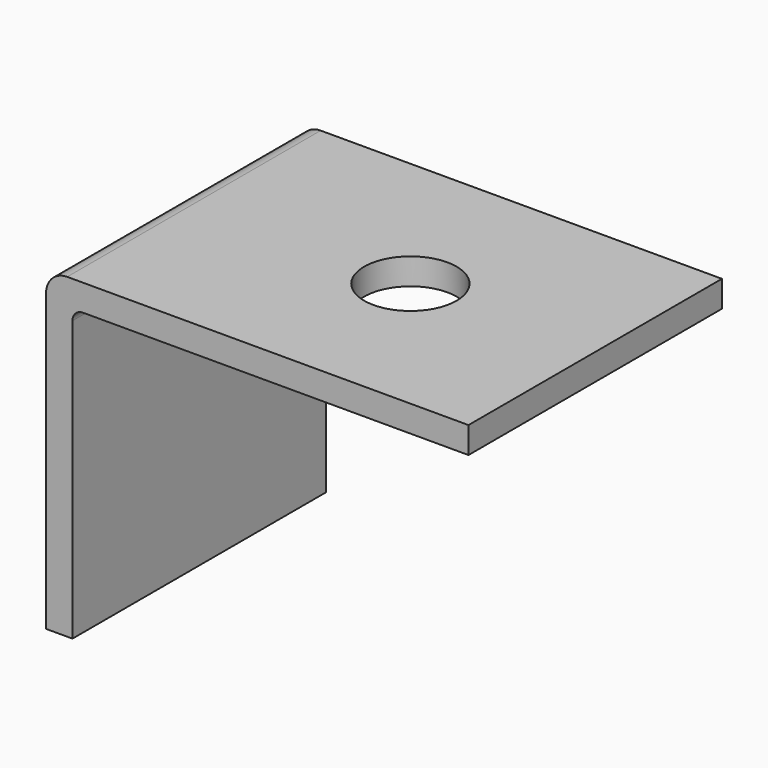
from build123d import *

# Parameters (mm, degrees)
F1_DEPTH      = 38.1
F1_DEPTH_BACK = 38.1
F2_R          = 5.08
F3_R          = 2.54
F4_R          = 11.1125
F5_DEPTH      = 25.4


with BuildPart() as f1:
    # F0 (on Front) → F1 (new body, two sides)
    with BuildSketch(Plane.XZ) as f1_sk:
        Polygon((-6.35, 0), (0, 0), (0, 69.85), (95.25, 69.85), (95.25, 76.2), (-6.35, 76.2), align=None)
    extrude(amount=F1_DEPTH)
    extrude(f1_sk.sketch, amount=-F1_DEPTH_BACK)

    # F2
    f2_edges = [f1.edges().sort_by_distance(p)[0] for p in [
        (-6.35, 0, 76.2),
    ]]
    fillet(f2_edges, radius=F2_R)

    # F3
    f3_edges = [f1.edges().sort_by_distance(p)[0] for p in [
        (0, 0, 69.85),
    ]]
    fillet(f3_edges, radius=F3_R)

    # F4 (on face) → F5 (cut)
    with BuildSketch(Plane.XY.offset(76.2)):
        with Locations((50.8, 0)):
            Circle(F4_R)
    extrude(amount=-F5_DEPTH, mode=Mode.SUBTRACT)


solid = f1.part
